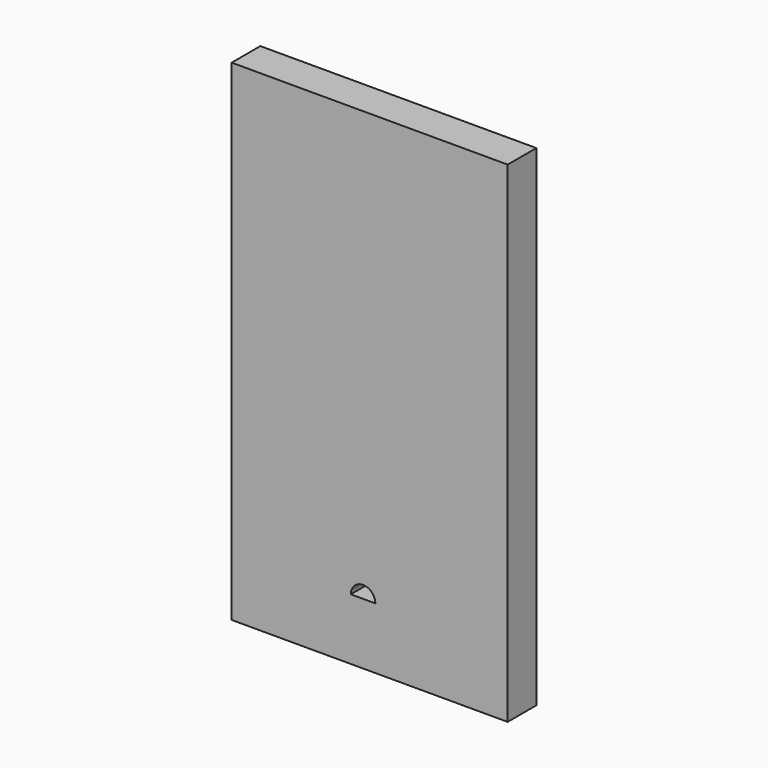
from build123d import *

# Parameters (mm, degrees)
F1_DEPTH = 5.842


with BuildPart() as f1:
    # F0 (on Front) → F1 (new body)
    with BuildSketch(Plane.XZ):
        Polygon((23.578767, 80), (-21.421233, 80), (-21.421233, 0), (0.725202, 0), (23.578767, 0), align=None)
        with BuildLine():
            ThreePointArc((-2, 10), (0, 12), (2, 10))
            Line((2, 10), (-2, 10))
        make_face(mode=Mode.SUBTRACT)
    extrude(amount=F1_DEPTH)


solid = f1.part
